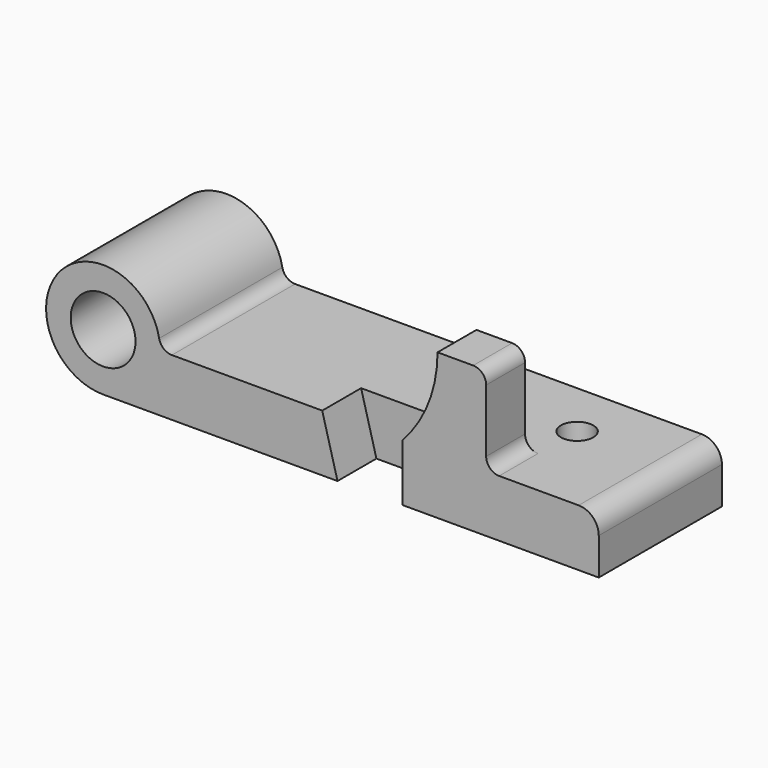
from build123d import *

# Parameters (mm, degrees)
F0_R     = 12.7
F1_DEPTH = 60.325
F2_DEPTH = 19.05
F3_DEPTH = 19.05
F4_R     = 5.08
F5_R     = 6.35
F6_DEPTH = 25.4


with BuildPart() as f1:
    # F0 (on Front) → F1 (new body)
    with BuildSketch(Plane.XZ):
        with BuildLine():
            ThreePointArc((-55.109176, 0), (-39.303925, 6.546749), (-32.757176, 22.352))
            ThreePointArc((-32.757176, 22.352), (-70.914426, 38.157251), (-55.109176, 0))
        make_face()
        with Locations((-55.109176, 22.352)):
            Circle(F0_R, mode=Mode.SUBTRACT)
        with BuildLine():
            Line((30.742824, 22.352), (-32.757176, 22.352))
            ThreePointArc((-32.757176, 22.352), (-39.303925, 6.546749), (-55.109176, 0))
            Line((-55.109176, 0), (36.737224, 0))
            Line((36.737224, 0), (30.742824, 22.352))
        make_face()
        Polygon((62.137224, 22.352), (30.742824, 22.352), (36.737224, 0), (62.137224, 0), align=None)
        with BuildLine():
            Line((94.979424, 22.352), (62.137224, 22.352))
            Line((62.137224, 22.352), (62.137224, 0))
            Line((62.137224, 0), (139.099224, 0))
            Line((139.099224, 0), (139.099224, 14.478))
            ThreePointArc((139.099224, 14.478), (136.792983, 20.045759), (131.225224, 22.352))
            Line((131.225224, 22.352), (94.979424, 22.352))
        make_face()
    extrude(amount=-F1_DEPTH)

    # F0 (on Front) → F2 (join)
    with BuildSketch(Plane.XZ):
        with BuildLine():
            ThreePointArc((75.929424, 57.15), (72.35524, 38.434358), (62.137224, 22.352))
            Line((62.137224, 22.352), (94.979424, 22.352))
            Line((94.979424, 22.352), (94.979424, 52.07))
            ThreePointArc((94.979424, 52.07), (93.491527, 55.662102), (89.899424, 57.15))
            Line((89.899424, 57.15), (75.929424, 57.15))
        make_face()
    extrude(amount=-F2_DEPTH)

    # F0 (on Front) → F3 (cut)
    with BuildSketch(Plane.XZ):
        Polygon((62.137224, 22.352), (30.742824, 22.352), (36.737224, 0), (62.137224, 0), align=None)
    extrude(amount=-F3_DEPTH, mode=Mode.SUBTRACT)

    # F4
    f4_edges = [f1.edges().sort_by_distance(p)[0] for p in [
        (-32.757176, 30.1625, 22.352),
        (94.979424, 9.525, 22.352),
    ]]
    fillet(f4_edges, radius=F4_R)

    # F5 (on face) → F6 (cut)
    with BuildSketch(Plane.XY.offset(22.352)):
        with Locations((100.237224, 37.973)):
            Circle(F5_R)
    extrude(amount=-F6_DEPTH, mode=Mode.SUBTRACT)


solid = f1.part
